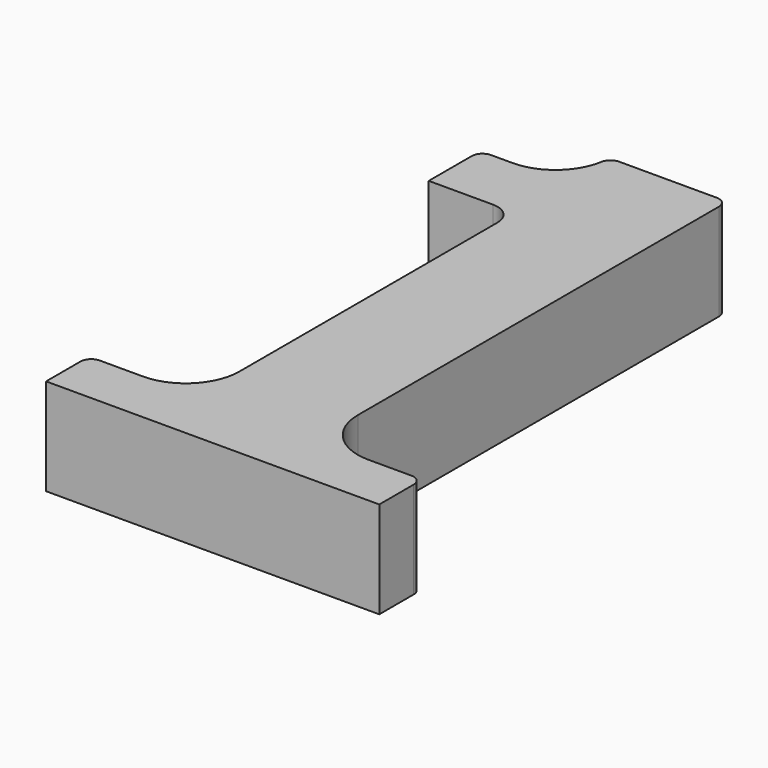
from build123d import *

# Parameters (mm, degrees)
F1_DEPTH = 4.5
F2_R     = 1


with BuildPart() as f1:
    # F0 (on Top) → F1 (new body, symmetric)
    with BuildSketch(Plane.XY):
        with BuildLine():
            Line((-5.5, -26.5), (5.5, -26.5))
            Line((5.5, -26.5), (15.5, -26.5))
            Line((15.5, -26.5), (15.5, -22.5))
            ThreePointArc((15.5, -22.5), (15.2071067812, -21.7928932188), (14.5, -21.5))
            Line((14.5, -21.5), (10.5, -21.5))
            ThreePointArc((10.5, -21.5), (6.9644660941, -20.0355339059), (5.5, -16.5))
            Line((5.5, -16.5), (5.5, 26.5))
            Line((5.5, 26.5), (-5.5, 26.5))
            ThreePointArc((-5.5, 26.5), (-6.9644660941, 22.9644660941), (-10.5, 21.5))
            Line((-10.5, 21.5), (-12.5, 21.5))
            ThreePointArc((-12.5, 21.5), (-13.2071067812, 21.2071067812), (-13.5, 20.5))
            Line((-13.5, 20.5), (-13.5, 15.5))
            Line((-13.5, 15.5), (-7.5, 15.5))
            ThreePointArc((-7.5, 15.5), (-6.0857864376, 14.9142135624), (-5.5, 13.5))
            Line((-5.5, 13.5), (-5.5, -16.5))
            ThreePointArc((-5.5, -16.5), (-6.9644660941, -20.0355339059), (-10.5, -21.5))
            Line((-10.5, -21.5), (-14.5, -21.5))
            ThreePointArc((-14.5, -21.5), (-15.2071067812, -21.7928932188), (-15.5, -22.5))
            Line((-15.5, -22.5), (-15.5, -26.5))
            Line((-15.5, -26.5), (-5.5, -26.5))
        make_face()
    extrude(amount=F1_DEPTH, both=True)

    # F2
    f2_edges = [f1.edges().sort_by_distance(p)[0] for p in [
        (5.5, 26.5, 0),
        (-5.5, 26.5, 0),
    ]]
    fillet(f2_edges, radius=F2_R)


solid = f1.part
